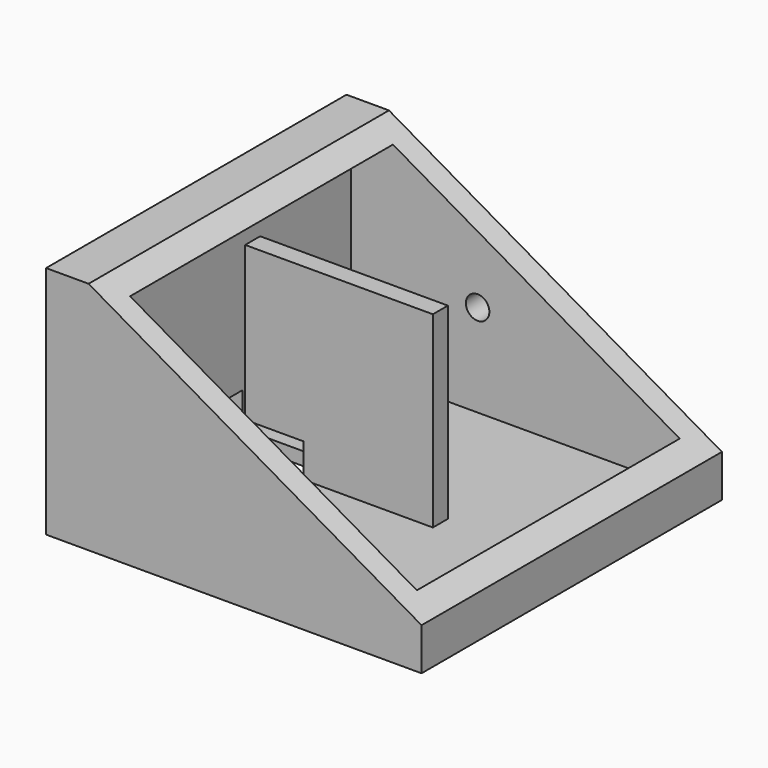
from build123d import *

# Parameters (mm, degrees)
F1_DEPTH = 200
F2_W     = 350
F2_H     = 350
F3_DEPTH = 111
F4_W     = 200
F4_H     = 20
F5_DEPTH = 200
F6_R     = 12.5
F7_DEPTH = 25
F8_W     = 60
F8_H     = 100
F9_DEPTH = 122


with BuildPart() as f1:
    # F0 (on Front) → F1 (new body, symmetric)
    with BuildSketch(Plane.XZ):
        Polygon((-200, 125), (-200, -125), (200, -125), (200, -79.8974335194), (-154.72202003, 125), align=None)
    extrude(amount=F1_DEPTH, both=True)

    # F2 (on Top) → F3 (cut, symmetric)
    with BuildSketch(Plane.XY):
        Rectangle(F2_W, F2_H)
    extrude(amount=F3_DEPTH, both=True, mode=Mode.SUBTRACT)

    # F4 (on face) → F5 (join)
    with BuildSketch(Plane.XY.offset(-111)):
        with Locations((-39.9386547506, 0)):
            Rectangle(F4_W, F4_H)
    extrude(amount=F5_DEPTH)

    # F6 (on face) → F7 (cut)
    with BuildSketch(Plane(origin=(0, 200, 0), x_dir=(-1, 0, 0), z_dir=(0, 1, 0))):
        with Locations((40.2607396245, -12.4808279797)):
            Circle(F6_R)
    extrude(amount=-F7_DEPTH, mode=Mode.SUBTRACT)

    # F8 (on face) → F9 (cut)
    with BuildSketch(Plane(origin=(-200, 0, 0), x_dir=(0, -1, 0), z_dir=(-1, 0, 0))):
        with Locations((0, -125)):
            Rectangle(F8_W, F8_H)
    extrude(amount=-F9_DEPTH, mode=Mode.SUBTRACT)


solid = f1.part
